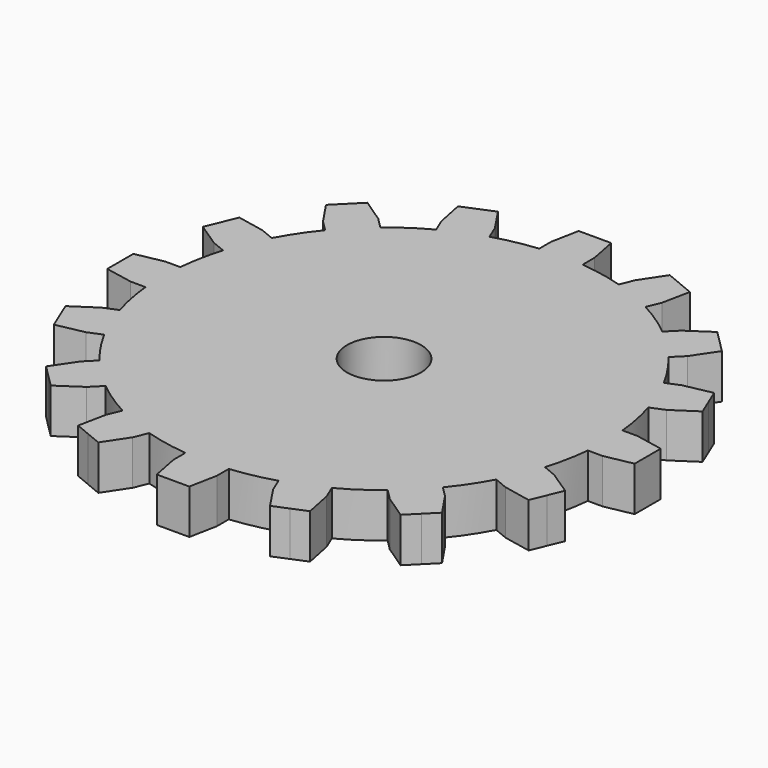
from build123d import *

# Parameters (mm, degrees)
F0_R     = 6.35
F1_DEPTH = 3.81


with BuildPart() as f1:
    # F0 (on Top) → F1 (new body, symmetric)
    with BuildSketch(Plane.XY):
        with BuildLine():
            Line((-25.978442, -31.237892), (-24.182391, -29.441841))
            ThreePointArc((-24.182391, -29.441841), (-21.167226, -31.678992), (-17.946514, -33.60852))
            Line((-17.946514, -33.60852), (-18.91853, -35.955174))
            Line((-18.91853, -35.955174), (-19.883203, -40.701224))
            Line((-19.883203, -40.701224), (-17.301883, -41.770441))
            Line((-17.301883, -41.770441), (-14.720564, -42.839659))
            Line((-14.720564, -42.839659), (-12.046727, -38.801568))
            Line((-12.046727, -38.801568), (-11.074711, -36.454914))
            ThreePointArc((-11.074711, -36.454914), (-7.432941, -37.367919), (-3.718993, -37.918058))
            Line((-3.718993, -37.918058), (-3.718993, -40.458058))
            Line((-3.718993, -40.458058), (-2.794, -45.212))
            Line((-2.794, -45.212), (0, -45.212))
            Line((0, -45.212), (2.794, -45.212))
            Line((2.794, -45.212), (3.718993, -40.458058))
            Line((3.718993, -40.458058), (3.718993, -37.918058))
            ThreePointArc((3.718993, -37.918058), (7.432941, -37.367919), (11.074711, -36.454914))
            Line((11.074711, -36.454914), (12.046727, -38.801568))
            Line((12.046727, -38.801568), (14.720564, -42.839659))
            Line((14.720564, -42.839659), (17.301883, -41.770441))
            Line((17.301883, -41.770441), (19.883203, -40.701224))
            Line((19.883203, -40.701224), (18.91853, -35.955174))
            Line((18.91853, -35.955174), (17.946514, -33.60852))
            ThreePointArc((17.946514, -33.60852), (21.167226, -31.678992), (24.182391, -29.441841))
            Line((24.182391, -29.441841), (25.978442, -31.237892))
            Line((25.978442, -31.237892), (29.994055, -33.945368))
            Line((29.994055, -33.945368), (31.969712, -31.969712))
            Line((31.969712, -31.969712), (33.945368, -29.994055))
            Line((33.945368, -29.994055), (31.237892, -25.978442))
            Line((31.237892, -25.978442), (29.441841, -24.182391))
            ThreePointArc((29.441841, -24.182391), (31.678992, -21.167226), (33.60852, -17.946514))
            Line((33.60852, -17.946514), (35.955174, -18.91853))
            Line((35.955174, -18.91853), (40.701224, -19.883203))
            Line((40.701224, -19.883203), (41.770441, -17.301883))
            Line((41.770441, -17.301883), (42.839659, -14.720564))
            Line((42.839659, -14.720564), (38.801568, -12.046727))
            Line((38.801568, -12.046727), (36.454914, -11.074711))
            ThreePointArc((36.454914, -11.074711), (37.367919, -7.432941), (37.918058, -3.718993))
            Line((37.918058, -3.718993), (40.458058, -3.718993))
            Line((40.458058, -3.718993), (45.212, -2.794))
            Line((45.212, -2.794), (45.212, 0))
            Line((45.212, 0), (45.212, 2.794))
            Line((45.212, 2.794), (40.458058, 3.718993))
            Line((40.458058, 3.718993), (37.918058, 3.718993))
            ThreePointArc((37.918058, 3.718993), (37.367919, 7.432941), (36.454914, 11.074711))
            Line((36.454914, 11.074711), (38.801568, 12.046727))
            Line((38.801568, 12.046727), (42.839659, 14.720564))
            Line((42.839659, 14.720564), (41.770441, 17.301883))
            Line((41.770441, 17.301883), (40.701224, 19.883203))
            Line((40.701224, 19.883203), (35.955174, 18.91853))
            Line((35.955174, 18.91853), (33.60852, 17.946514))
            ThreePointArc((33.60852, 17.946514), (31.678992, 21.167226), (29.441841, 24.182391))
            Line((29.441841, 24.182391), (31.237892, 25.978442))
            Line((31.237892, 25.978442), (33.945368, 29.994055))
            Line((33.945368, 29.994055), (31.969712, 31.969712))
            Line((31.969712, 31.969712), (29.994055, 33.945368))
            Line((29.994055, 33.945368), (25.978442, 31.237892))
            Line((25.978442, 31.237892), (24.182391, 29.441841))
            ThreePointArc((24.182391, 29.441841), (21.167226, 31.678992), (17.946514, 33.60852))
            Line((17.946514, 33.60852), (18.91853, 35.955174))
            Line((18.91853, 35.955174), (19.883203, 40.701224))
            Line((19.883203, 40.701224), (17.301883, 41.770441))
            Line((17.301883, 41.770441), (14.720564, 42.839659))
            Line((14.720564, 42.839659), (12.046727, 38.801568))
            Line((12.046727, 38.801568), (11.074711, 36.454914))
            ThreePointArc((11.074711, 36.454914), (7.432941, 37.367919), (3.718993, 37.918058))
            Line((3.718993, 37.918058), (3.718993, 40.458058))
            Line((3.718993, 40.458058), (2.794, 45.212))
            Line((2.794, 45.212), (0, 45.212))
            Line((0, 45.212), (-2.794, 45.212))
            Line((-2.794, 45.212), (-3.718993, 40.458058))
            Line((-3.718993, 40.458058), (-3.718993, 37.918058))
            ThreePointArc((-3.718993, 37.918058), (-7.432941, 37.367919), (-11.074711, 36.454914))
            Line((-11.074711, 36.454914), (-12.046727, 38.801568))
            Line((-12.046727, 38.801568), (-14.720564, 42.839659))
            Line((-14.720564, 42.839659), (-17.301883, 41.770441))
            Line((-17.301883, 41.770441), (-19.883203, 40.701224))
            Line((-19.883203, 40.701224), (-18.91853, 35.955174))
            Line((-18.91853, 35.955174), (-17.946514, 33.60852))
            ThreePointArc((-17.946514, 33.60852), (-21.167226, 31.678992), (-24.182391, 29.441841))
            Line((-24.182391, 29.441841), (-25.978442, 31.237892))
            Line((-25.978442, 31.237892), (-29.994055, 33.945368))
            Line((-29.994055, 33.945368), (-31.969712, 31.969712))
            Line((-31.969712, 31.969712), (-33.945368, 29.994055))
            Line((-33.945368, 29.994055), (-31.237892, 25.978442))
            Line((-31.237892, 25.978442), (-29.441841, 24.182391))
            ThreePointArc((-29.441841, 24.182391), (-31.678992, 21.167226), (-33.60852, 17.946514))
            Line((-33.60852, 17.946514), (-35.955174, 18.91853))
            Line((-35.955174, 18.91853), (-40.701224, 19.883203))
            Line((-40.701224, 19.883203), (-41.770441, 17.301883))
            Line((-41.770441, 17.301883), (-42.839659, 14.720564))
            Line((-42.839659, 14.720564), (-38.801568, 12.046727))
            Line((-38.801568, 12.046727), (-36.454914, 11.074711))
            ThreePointArc((-36.454914, 11.074711), (-37.367919, 7.432941), (-37.918058, 3.718993))
            Line((-37.918058, 3.718993), (-40.458058, 3.718993))
            Line((-40.458058, 3.718993), (-45.212, 2.794))
            Line((-45.212, 2.794), (-45.212, 0))
            Line((-45.212, 0), (-45.212, -2.794))
            Line((-45.212, -2.794), (-40.458058, -3.718993))
            Line((-40.458058, -3.718993), (-37.918058, -3.718993))
            ThreePointArc((-37.918058, -3.718993), (-37.367919, -7.432941), (-36.454914, -11.074711))
            Line((-36.454914, -11.074711), (-38.801568, -12.046727))
            Line((-38.801568, -12.046727), (-42.839659, -14.720564))
            Line((-42.839659, -14.720564), (-41.770441, -17.301883))
            Line((-41.770441, -17.301883), (-40.701224, -19.883203))
            Line((-40.701224, -19.883203), (-35.955174, -18.91853))
            Line((-35.955174, -18.91853), (-33.60852, -17.946514))
            ThreePointArc((-33.60852, -17.946514), (-31.678992, -21.167226), (-29.441841, -24.182391))
            Line((-29.441841, -24.182391), (-31.237892, -25.978442))
            Line((-31.237892, -25.978442), (-33.945368, -29.994055))
            Line((-33.945368, -29.994055), (-31.969712, -31.969712))
            Line((-31.969712, -31.969712), (-29.994055, -33.945368))
            Line((-29.994055, -33.945368), (-25.978442, -31.237892))
        make_face()
        Circle(F0_R, mode=Mode.SUBTRACT)
    extrude(amount=F1_DEPTH, both=True)


solid = f1.part
